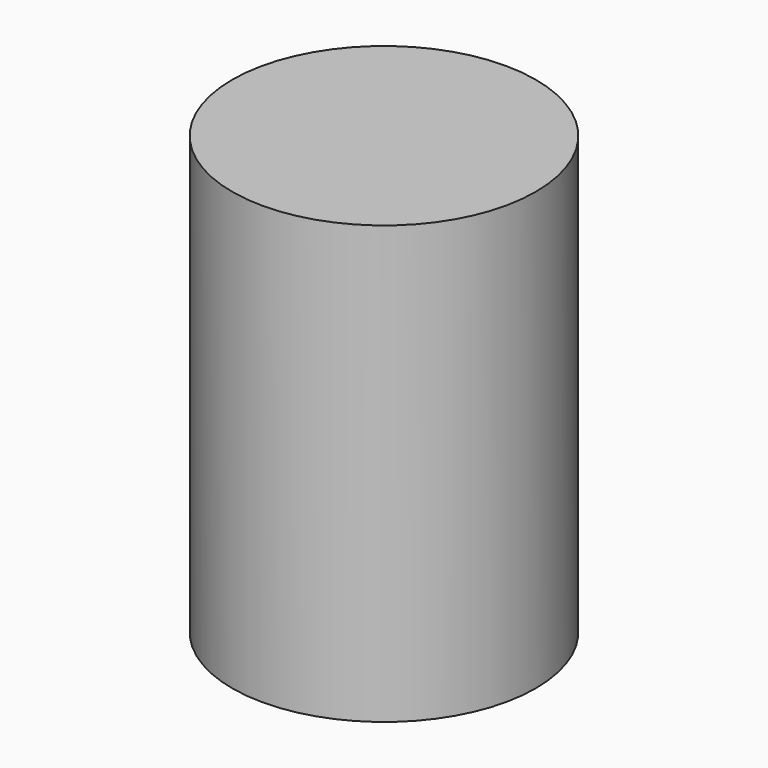
from build123d import *

# Parameters (mm, degrees)
F0_R      = 12.5
F1_DEPTH  = 36
F2_W      = 10
F2_H      = 16
F3_DEPTH  = 32
F4_W      = 10
F4_H      = 2
F5_DEPTH  = 14
F7_D      = 4
F7_DEPTH  = 7.501
F9_W      = 4
F9_H      = 1.1
F10_DEPTH = 8
F8_R      = 3
F8_R_2    = 2.5
F11_DEPTH = 1.5


with BuildPart() as f1:
    # F0 (on Top) → F1 (new body)
    with BuildSketch(Plane.XY):
        Circle(F0_R)
    extrude(amount=F1_DEPTH)

    # F2 (on face) → F3 (cut)
    with BuildSketch(Plane(origin=(0, 0, 0), x_dir=(1, 0, 0), z_dir=(0, 0, -1))):
        with Locations((0, -1)):
            Rectangle(F2_W, F2_H)
    extrude(amount=-F3_DEPTH, mode=Mode.SUBTRACT)

    # F4 (on face) → F5 (cut)
    with BuildSketch(Plane(origin=(0, 0, 0), x_dir=(1, 0, 0), z_dir=(0, 0, -1))):
        with Locations((0, 8)):
            Rectangle(F4_W, F4_H)
    extrude(amount=-F5_DEPTH, mode=Mode.SUBTRACT)

    # F7 (through all, one way)
    with BuildSketch(Plane.YZ.offset(-5)):
        with Locations((-5, 18)):
            Circle(F7_D / 2)
    extrude(amount=-F7_DEPTH, mode=Mode.SUBTRACT)

    # F9 (on face) → F10 (cut)
    with BuildSketch(Plane(origin=(0, 0, 14), x_dir=(1, 0, 0), z_dir=(0, 0, -1))):
        with Locations((-3, 7.55)):
            Rectangle(F9_W, F9_H)
    extrude(amount=-F10_DEPTH, mode=Mode.SUBTRACT)

    # F8 (on face) → F11 (join)
    with BuildSketch(Plane.YZ.offset(-5)):
        with Locations((-5, 18)):
            Circle(F8_R)
        with Locations((-5, 18)):
            Circle(F8_R_2, mode=Mode.SUBTRACT)
    extrude(amount=F11_DEPTH)


solid = f1.part
